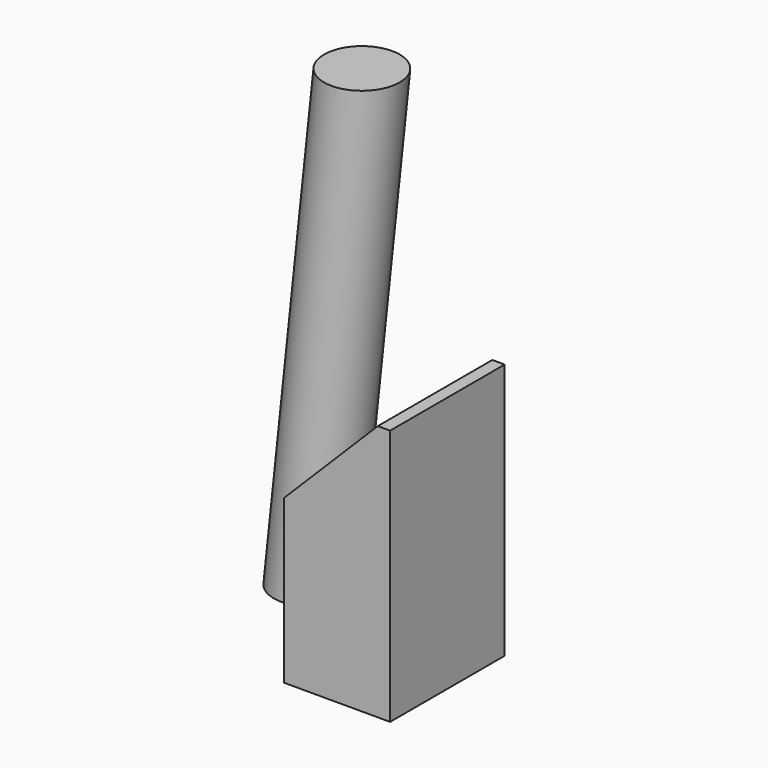
from build123d import *

# Parameters (mm, degrees)
F0_W     = 57.476174
F0_H     = 77.409141
F1_DEPTH = 138.624266
F2_SIZE  = 50.8
F3_R     = 20.448919


with BuildPart() as f1:
    # F0 (on Top) → F1 (new body)
    with BuildSketch(Plane.XY):
        with Locations((28.738087, -38.70457)):
            Rectangle(F0_W, F0_H)
    extrude(amount=F1_DEPTH)

    # F2
    f2_edges = [f1.edges().sort_by_distance(p)[0] for p in [
        (0, -38.70457, 138.624266),
    ]]
    chamfer(f2_edges, length=F2_SIZE)


with BuildPart() as f5:
    # F5: sweep along a path in F4
    with BuildLine(Plane.XZ) as f5_path:
        Line((-49.221203, 0), (-22.133406, 254.430741))
    # F3 (on Top) → F5 (sweep)
    with BuildSketch(Plane.XY):
        with Locations((-46.804674, 0)):
            Circle(F3_R)
    sweep(path=f5_path.line)


solid = Compound([f1.part, f5.part])
